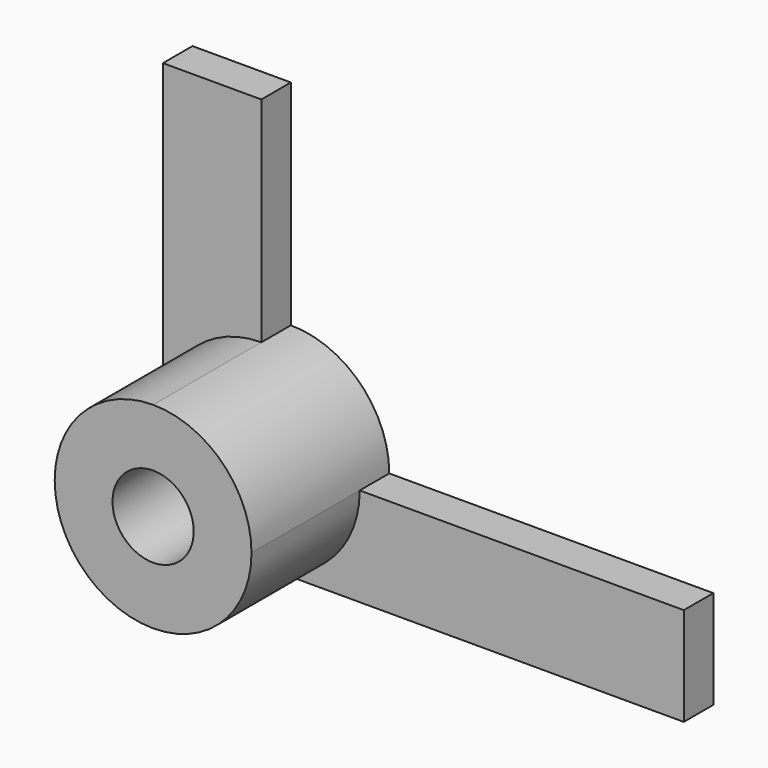
from build123d import *

# Parameters (mm, degrees)
F1_DEPTH       = 7
F3_D           = 3.3
F3_CSINK_D     = 6.72
F3_CSINK_ANGLE = 90
F4_DEPTH       = 1.5


with BuildPart() as f1:
    # F0 (on Front) → F1 (new body)
    with BuildSketch(Plane.XZ):
        with BuildLine():
            ThreePointArc((20.6767564522, -31.0453001757), (23.505183577, -29.8737273005), (24.6767564522, -27.0453001757))
            ThreePointArc((24.6767564522, -27.0453001757), (23.505183577, -24.216873051), (20.6767564522, -23.0453001757))
            ThreePointArc((20.6767564522, -23.0453001757), (17.8483293275, -24.216873051), (16.6767564522, -27.0453001757))
            ThreePointArc((16.6767564522, -27.0453001757), (17.8483293275, -29.8737273005), (20.6767564522, -31.0453001757))
        make_face()
    extrude(amount=F1_DEPTH)

    # F3 (through all)
    with Locations(Plane(origin=(0, 0, 0), x_dir=(1, 0, 0), z_dir=(0, 1, 0))):
        with Locations((20.6767564522, 27.0453001757)):
            CounterSinkHole(F3_D / 2, F3_CSINK_D / 2, counter_sink_angle=F3_CSINK_ANGLE)

    # F0 (on Front) → F4 (join)
    with BuildSketch(Plane.XZ):
        with BuildLine():
            ThreePointArc((16.6767564522, -27.0453001757), (17.8483293275, -24.216873051), (20.6767564522, -23.0453001757))
            Line((20.6767564522, -23.0453001757), (20.6767564522, -14.3548102902))
            Line((20.6767564522, -14.3548102902), (16.6767564522, -14.3548102902))
            Line((16.6767564522, -14.3548102902), (16.6767564522, -27.0453001757))
        make_face()
        with BuildLine():
            Line((37.8486532164, -27.0453001757), (24.6767564522, -27.0453001757))
            ThreePointArc((24.6767564522, -27.0453001757), (23.505183577, -29.8737273005), (20.6767564522, -31.0453001757))
            Line((20.6767564522, -31.0453001757), (37.8486532164, -31.0453001757))
            Line((37.8486532164, -31.0453001757), (37.8486532164, -27.0453001757))
        make_face()
    extrude(amount=F4_DEPTH)


solid = f1.part
